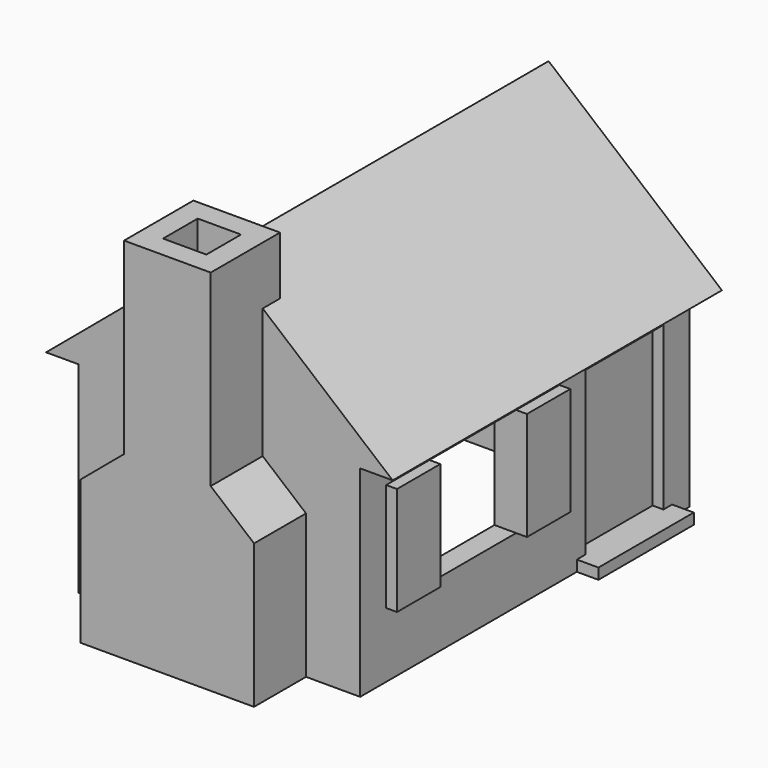
from build123d import *

# Parameters (mm, degrees)
F1_DEPTH       = 19
F2_W           = 10
F2_H           = 10
F3_DEPTH       = 19.001
F4_W           = 28
F4_H           = 20
F5_DEPTH       = 10
F6_W           = 10
F6_H           = 10
F7_DEPTH       = 16.001
F7_DEPTH_BACK  = 16.001
F8_W           = 5
F8_H           = 10
F9_DEPTH       = 1
F10_W          = 22
F10_H          = 34
F11_DEPTH      = 18.5754059012
F13_DEPTH      = 17
F13_DEPTH_BACK = 17
F14_W          = 8
F14_H          = 8
F15_DEPTH      = 34
F17_DEPTH      = 8
F18_W          = 4
F18_H          = 4
F19_DEPTH      = 34.001
F21_DEPTH      = 23
F22_W          = 9
F22_H          = 16
F23_DEPTH      = 1
F24_W          = 11
F24_H          = 1
F25_DEPTH      = 4


with BuildPart() as f1:
    # F0 (on Front) → F1 (new body, symmetric)
    with BuildSketch(Plane.XZ):
        Polygon((-13, 18.5744059012), (-13, 0), (13, 0), (13, 18.5744059012), (16, 18.5744059012), (0, 32), (-16, 18.5744059012), align=None)
    extrude(amount=F1_DEPTH, both=True)

    # F2 (on Front) → F3 (cut, through all)
    with BuildSketch(Plane.XZ):
        with Locations((0, 11)):
            Rectangle(F2_W, F2_H)
    extrude(amount=-F3_DEPTH, mode=Mode.SUBTRACT)

    # F4 (on face) → F5 (join, through all)
    with BuildSketch(Plane.XY.offset(6)):
        with Locations((0, -6)):
            Rectangle(F4_W, F4_H)
    extrude(amount=F5_DEPTH)

    # F6 (on Right) → F7 (cut, two sides)
    with BuildSketch(Plane.YZ) as f7_sk:
        with Locations((-6, 11)):
            Rectangle(F6_W, F6_H)
    extrude(amount=-F7_DEPTH, mode=Mode.SUBTRACT)
    extrude(f7_sk.sketch, amount=F7_DEPTH_BACK, mode=Mode.SUBTRACT)

    # F8 (on face) → F9 (join)
    with BuildSketch(Plane(origin=(0, 19, 0), x_dir=(-1, 0, 0), z_dir=(0, 1, 0))):
        with Locations((-7.5, 11)):
            Rectangle(F8_W, F8_H)
        with Locations((7.5, 11)):
            Rectangle(F8_W, F8_H)
    extrude(amount=F9_DEPTH)

    # F10 (on face) → F11 (cut, through all)
    with BuildSketch(Plane(origin=(0, 0, 18.5744059012), x_dir=(1, 0, 0), z_dir=(0, 0, -1))):
        Rectangle(F10_W, F10_H)
    extrude(amount=F11_DEPTH, mode=Mode.SUBTRACT)

    # F12 (on Front) → F13 (cut, two sides)
    with BuildSketch(Plane.XZ) as f13_sk:
        Polygon((-11, 20.1590894784), (-11, 18.5744059012), (11, 18.5744059012), (11, 20.1590894784), (0, 29.3891854213), align=None)
    extrude(amount=-F13_DEPTH, mode=Mode.SUBTRACT)
    extrude(f13_sk.sketch, amount=F13_DEPTH_BACK, mode=Mode.SUBTRACT)

    # F14 (on Top) → F15 (join)
    with BuildSketch(Plane.XY):
        with Locations((0, -21)):
            Rectangle(F14_W, F14_H)
    extrude(amount=F15_DEPTH)

    # F16 (on face) → F17 (join, through all)
    with BuildSketch(Plane.XZ.offset(25)):
        Polygon((8, 13.2872029506), (0, 20), (-8, 13.2872029506), (-8, 0), (8, 0), align=None)
    extrude(amount=-F17_DEPTH)

    # F18 (on face) → F19 (cut, through all)
    with BuildSketch(Plane.XY.offset(34)):
        with Locations((0, -21)):
            Rectangle(F18_W, F18_H)
    extrude(amount=-F19_DEPTH, mode=Mode.SUBTRACT)

    # F20 (on Front) → F21 (cut, through all)
    with BuildSketch(Plane.XZ):
        with BuildLine():
            ThreePointArc((6, 9.5567416853), (0, 15.5567416853), (-6, 9.5567416853))
            Line((-6, 9.5567416853), (-6, 0))
            Line((-6, 0), (6, 0))
            Line((6, 0), (6, 9.5567416853))
        make_face()
    extrude(amount=F21_DEPTH, mode=Mode.SUBTRACT)

    # F22 (on face) → F23 (cut)
    with BuildSketch(Plane.YZ.offset(13)):
        with Locations((11.5, 8)):
            Rectangle(F22_W, F22_H)
    extrude(amount=-F23_DEPTH, mode=Mode.SUBTRACT)

    # F24 (on face) → F25 (join)
    with BuildSketch(Plane(origin=(11, 0, 0), x_dir=(0, -1, 0), z_dir=(-1, 0, 0))):
        with Locations((-11.5, 0.5)):
            Rectangle(F24_W, F24_H)
    extrude(amount=-F25_DEPTH)


solid = f1.part
